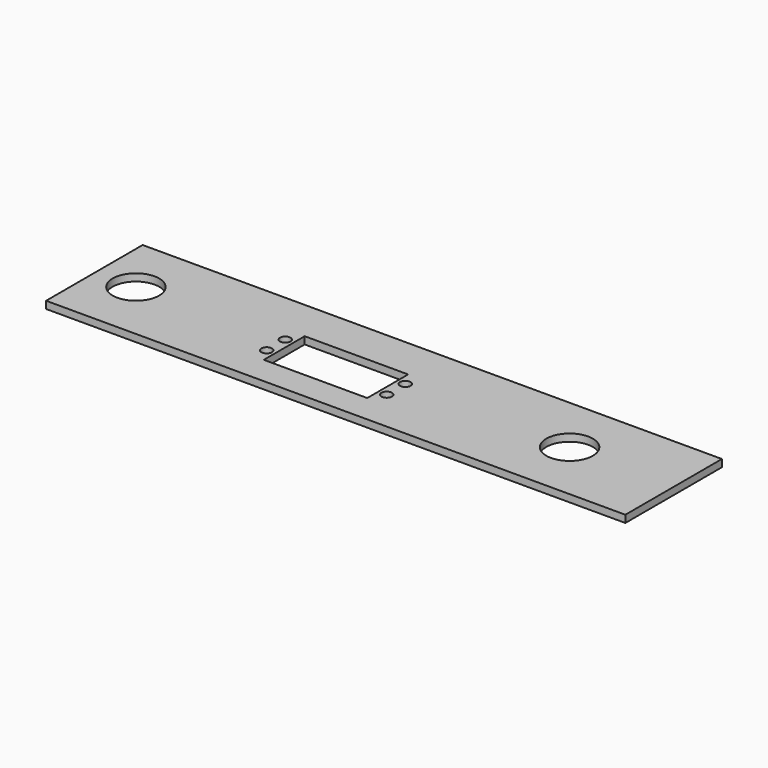
from build123d import *

# Parameters (mm, degrees)
F0_W     = 187
F0_H     = 38.963933
F0_R     = 1.7
F0_W_2   = 33.4
F0_H_2   = 16.5
F0_R_2   = 7.5
F1_DEPTH = 2.35


with BuildPart() as f1:
    # F0 (on Top) → F1 (new body)
    with BuildSketch(Plane.XY):
        with Locations((10.5, -0.518033)):
            Rectangle(F0_W, F0_H)
        with Locations((-22.675, -6.4)):
            Circle(F0_R, mode=Mode.SUBTRACT)
        with Locations((-3.3, -2.65)):
            Rectangle(F0_W_2, F0_H_2, mode=Mode.SUBTRACT)
        with Locations((16.075, -6.4)):
            Circle(F0_R, mode=Mode.SUBTRACT)
        with Locations((-70, 0)):
            Circle(F0_R_2, mode=Mode.SUBTRACT)
        with Locations((-22.675, 1.1)):
            Circle(F0_R, mode=Mode.SUBTRACT)
        with Locations((16.075, 1.1)):
            Circle(F0_R, mode=Mode.SUBTRACT)
        with Locations((70, 0)):
            Circle(F0_R_2, mode=Mode.SUBTRACT)
    extrude(amount=F1_DEPTH)


solid = f1.part
